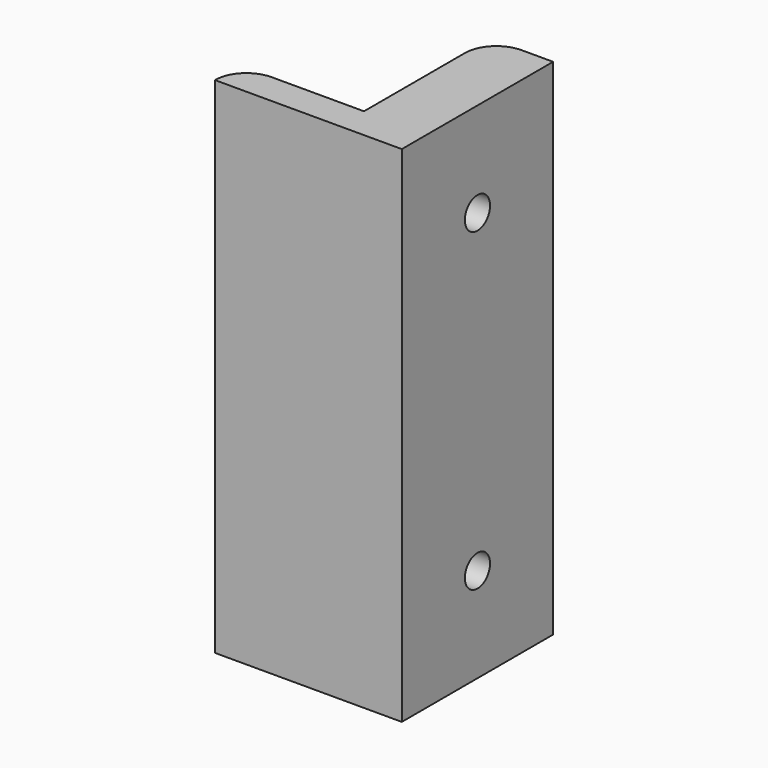
from build123d import *

# Parameters (mm, degrees)
F1_DEPTH       = 80
F3_D           = 5
F3_CSINK_D     = 10
F3_CSINK_ANGLE = 90


with BuildPart() as f1:
    # F0 (on Top) → F1 (new body)
    with BuildSketch(Plane.XY):
        with BuildLine():
            Line((10, 0), (10, 30))
            Line((10, 30), (5, 30))
            ThreePointArc((5, 30), (1.464466, 28.535534), (0, 25))
            Line((0, 25), (0, 5))
            Line((0, 5), (0, 0))
            Line((0, 0), (10, 0))
        make_face()
        with BuildLine():
            Line((-19.651743, 0), (0, 0))
            Line((0, 0), (0, 5))
            Line((0, 5), (-14.651743, 5))
            ThreePointArc((-14.651743, 5), (-18.187277, 3.535534), (-19.651743, 0))
        make_face()
    extrude(amount=F1_DEPTH)

    # F3 (through all)
    with Locations(Plane(origin=(0, 0, 0), x_dir=(0, -1, 0), z_dir=(-1, 0, 0))):
        with Locations((-15, 15.017683), (-15, 65)):
            CounterSinkHole(F3_D / 2, F3_CSINK_D / 2, counter_sink_angle=F3_CSINK_ANGLE)


solid = f1.part
